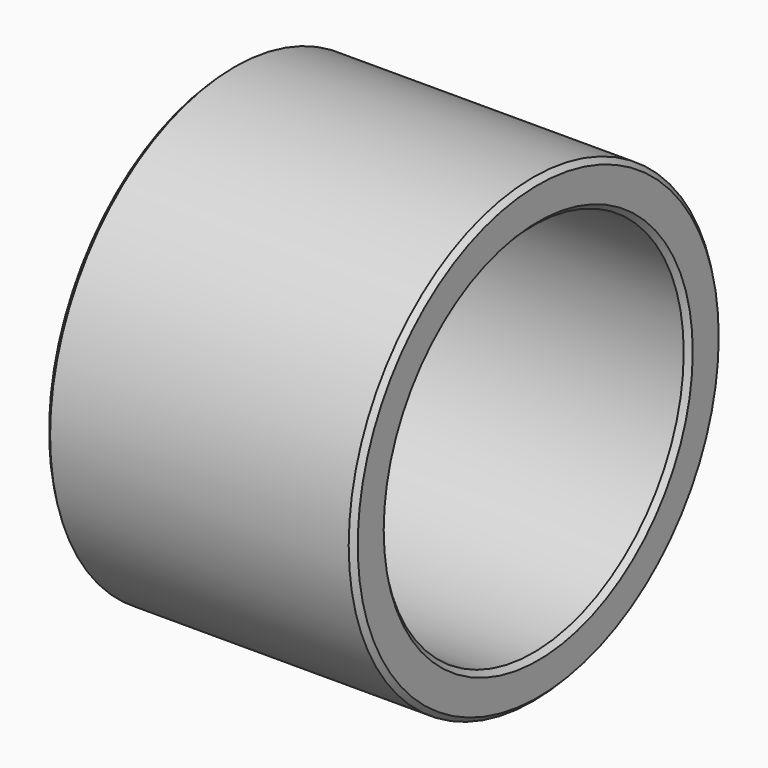
from build123d import *

# Parameters (mm, degrees)
F0_R     = 46
F0_R_2   = 37.525
F1_DEPTH = 61.559
F2_SIZE  = 1


with BuildPart() as f1:
    # F0 (on Right) → F1 (new body)
    with BuildSketch(Plane.YZ):
        Circle(F0_R)
        Circle(F0_R_2, mode=Mode.SUBTRACT)
    extrude(amount=F1_DEPTH)

    # F2
    f2_edges = [f1.edges().sort_by_distance(p)[0] for p in [
        (30.7795, 46, 0),
        (0, -46, 0),
        (61.559, -46, 0),
        (61.559, -37.525, 0),
        (0, -37.525, 0),
    ]]
    chamfer(f2_edges, length=F2_SIZE)


solid = f1.part
